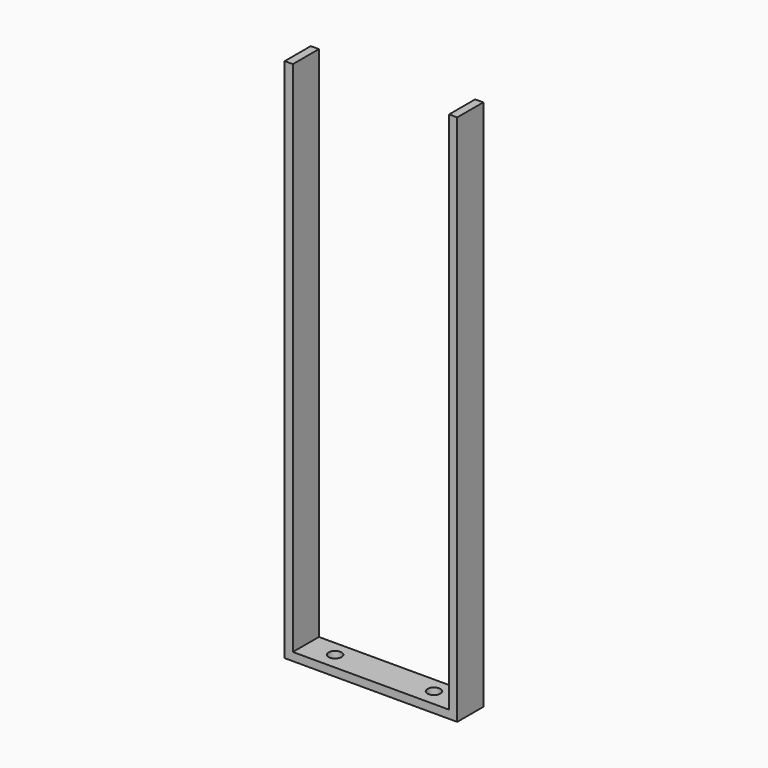
from build123d import *

# Parameters (mm, degrees)
F0_W     = 6.35
F0_H     = 403.86
F0_H_2   = 408.9721369725
F1_DEPTH = 25.4
F3_D     = 10.0838


with BuildPart() as f1:
    # F0 (on Front) → F1 (new body)
    with BuildSketch(Plane.XZ):
        with Locations((-64.135, 205.105)):
            Rectangle(F0_W, F0_H)
        with Locations((64.135, 207.6610684863)):
            Rectangle(F0_W, F0_H_2)
        Polygon((-67.31, -3.175), (67.31, -3.175), (67.31, 3.175), (60.96, 3.175), (-60.96, 3.175), (-67.31, 3.175), align=None)
    extrude(amount=F1_DEPTH)

    # F3 (through all)
    with Locations(Plane(origin=(0, 0, -3.175), x_dir=(1, 0, 0), z_dir=(0, 0, -1))):
        with Locations((-38.5919138789, 12.1817905456), (38.5919138789, 12.1817905456)):
            Hole(F3_D / 2)


solid = f1.part
